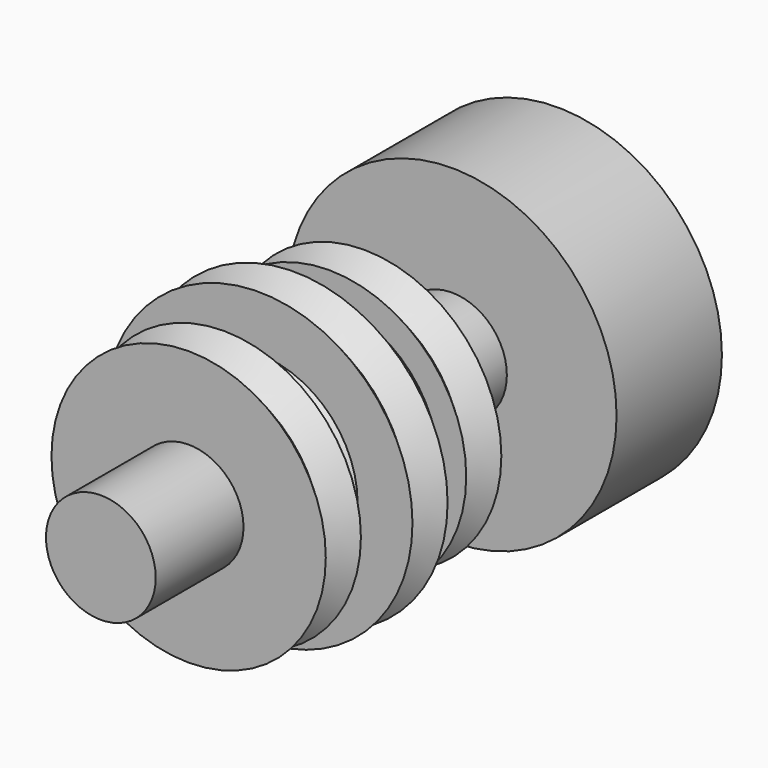
from build123d import *

# Parameters (mm, degrees)
F0_R      = 15
F1_DEPTH  = 12
F2_R      = 5
F3_DEPTH  = 10
F4_R      = 12.5
F5_DEPTH  = 2
F5_TAPER  = 45
F6_R      = 10.5
F7_DEPTH  = 2
F7_TAPER  = -45
F8_R      = 10
F9_DEPTH  = 2
F9_TAPER  = 45
F10_R     = 8
F11_DEPTH = 2
F11_TAPER = -45
F12_R     = 14
F13_DEPTH = 2
F13_TAPER = 45
F14_R     = 12
F15_DEPTH = 2
F15_TAPER = -45
F16_R     = 9
F17_DEPTH = 2
F17_TAPER = 45
F18_R     = 7
F19_DEPTH = 2
F19_TAPER = -45
F20_R     = 12.5
F21_DEPTH = 2
F21_TAPER = 45
F22_R     = 10.5
F23_DEPTH = 2
F23_TAPER = -45
F24_R     = 5
F25_DEPTH = 10


with BuildPart() as f1:
    # F0 (on Front) → F1 (new body)
    with BuildSketch(Plane.XZ):
        Circle(F0_R)
    extrude(amount=F1_DEPTH)

    # F2 (on face) → F3 (join)
    with BuildSketch(Plane.XZ.offset(12)):
        Circle(F2_R)
    extrude(amount=F3_DEPTH)

    # F4 (on face) → F5 (join)
    with BuildSketch(Plane.XZ.offset(22)):
        Circle(F4_R)
    extrude(amount=F5_DEPTH, taper=F5_TAPER)

    # F6 (on face) → F7 (join)
    with BuildSketch(Plane.XZ.offset(24)):
        Circle(F6_R)
    extrude(amount=F7_DEPTH, taper=F7_TAPER)

    # F8 (on face) → F9 (join)
    with BuildSketch(Plane.XZ.offset(26)):
        Circle(F8_R)
    extrude(amount=F9_DEPTH, taper=F9_TAPER)

    # F10 (on face) → F11 (join)
    with BuildSketch(Plane.XZ.offset(28)):
        Circle(F10_R)
    extrude(amount=F11_DEPTH, taper=F11_TAPER)

    # F12 (on face) → F13 (join)
    with BuildSketch(Plane.XZ.offset(30)):
        Circle(F12_R)
    extrude(amount=F13_DEPTH, taper=F13_TAPER)

    # F14 (on face) → F15 (join)
    with BuildSketch(Plane.XZ.offset(32)):
        Circle(F14_R)
    extrude(amount=F15_DEPTH, taper=F15_TAPER)

    # F16 (on face) → F17 (join)
    with BuildSketch(Plane.XZ.offset(34)):
        Circle(F16_R)
    extrude(amount=F17_DEPTH, taper=F17_TAPER)

    # F18 (on face) → F19 (join)
    with BuildSketch(Plane.XZ.offset(36)):
        Circle(F18_R)
    extrude(amount=F19_DEPTH, taper=F19_TAPER)

    # F20 (on face) → F21 (join)
    with BuildSketch(Plane.XZ.offset(38)):
        Circle(F20_R)
    extrude(amount=F21_DEPTH, taper=F21_TAPER)

    # F22 (on face) → F23 (join)
    with BuildSketch(Plane.XZ.offset(40)):
        Circle(F22_R)
    extrude(amount=F23_DEPTH, taper=F23_TAPER)

    # F24 (on face) → F25 (join)
    with BuildSketch(Plane.XZ.offset(42)):
        Circle(F24_R)
    extrude(amount=F25_DEPTH)


solid = f1.part
